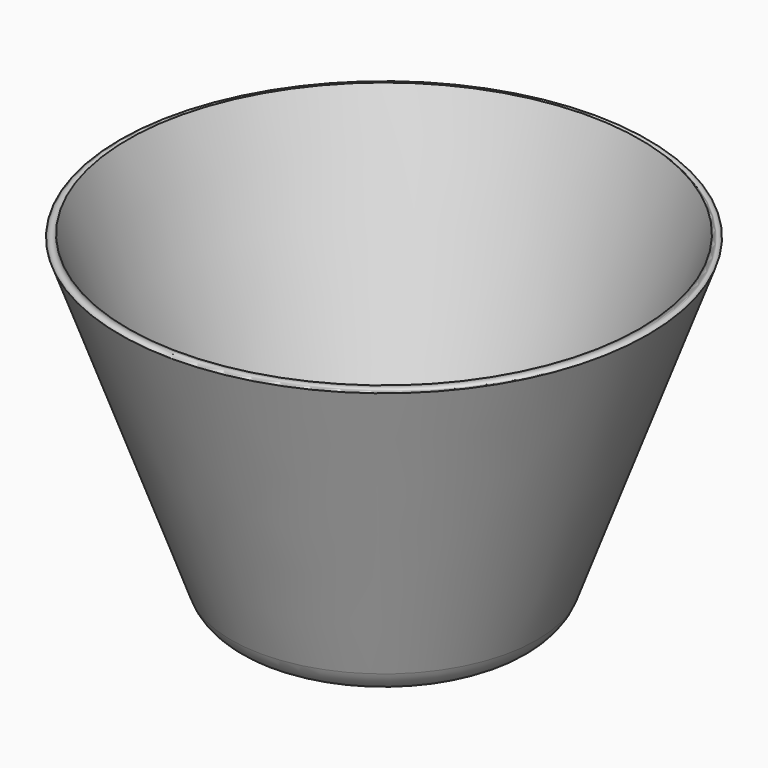
from build123d import *


with BuildPart() as f1:
    # F0 (on Front) → F1 (revolve)
    with BuildSketch(Plane.XZ):
        with BuildLine():
            Line((0, 10), (0, 0))
            Line((0, 0), (24.39834, 0))
            ThreePointArc((24.39834, 0), (28.986951, 1.446784), (31.915881, 5.263839))
            Line((31.915881, 5.263839), (55.050518, 68.825732))
            ThreePointArc((55.050518, 68.825732), (53.929019, 68.302769), (53.406056, 69.424268))
            Line((53.406056, 69.424268), (33.693272, 15.263839))
            ThreePointArc((33.693272, 15.263839), (30.764342, 11.446784), (26.175731, 10))
            Line((26.175731, 10), (0, 10))
        make_face()
    revolve(axis=Axis((0, 0, 5), (0, 0, 1)))


solid = f1.part
